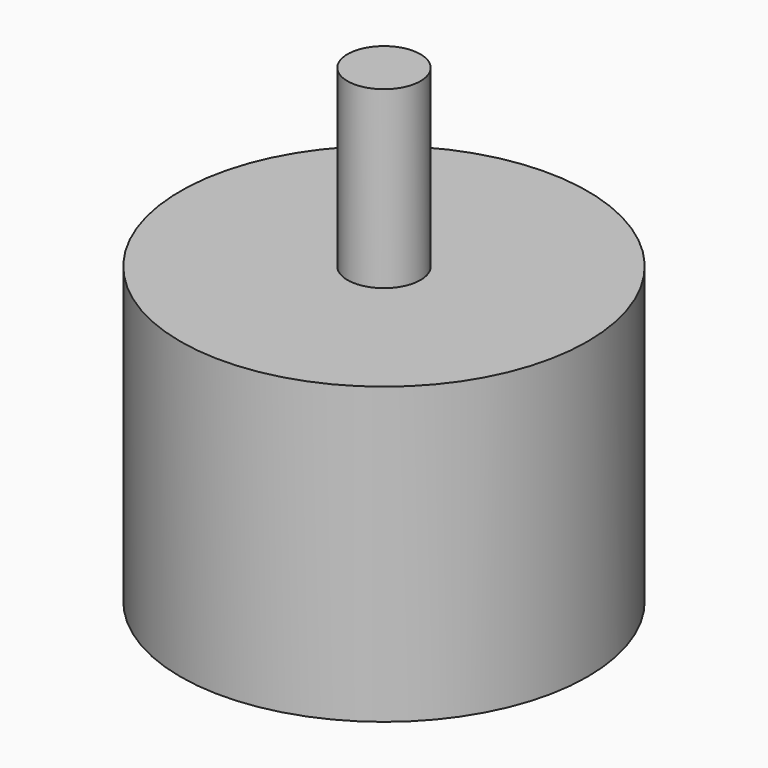
from build123d import *

# Parameters (mm, degrees)
F2_R     = 1.5
F4_DEPTH = 25.4
F3_R     = 1.5
F5_DEPTH = 25.4


with BuildPart() as f1:
    # F0 (on Front) → F1 (revolve)
    with BuildSketch(Plane.XZ):
        Polygon((0, 48.046581), (0, 15.846581), (13.95, 15.846581), (13.95, 36.064981), (2.5, 36.046581), (2.5, 48.046581), align=None)
    revolve(axis=Axis((0, 0, 31.946581), (0, 0, -1)))

    # F2 (on Top) → F4 (cut)
    with BuildSketch(Plane.XY):
        with Locations((6.717514, -6.717514)):
            Circle(F2_R)
        with Locations((-6.717514, 6.717514)):
            Circle(F2_R)
    extrude(amount=F4_DEPTH, mode=Mode.SUBTRACT)

    # F3 (on Top) → F5 (cut)
    with BuildSketch(Plane.XY):
        with Locations((-5.656854, -5.656854)):
            Circle(F3_R)
        with Locations((5.656854, 5.656854)):
            Circle(F3_R)
    extrude(amount=F5_DEPTH, mode=Mode.SUBTRACT)


solid = f1.part
